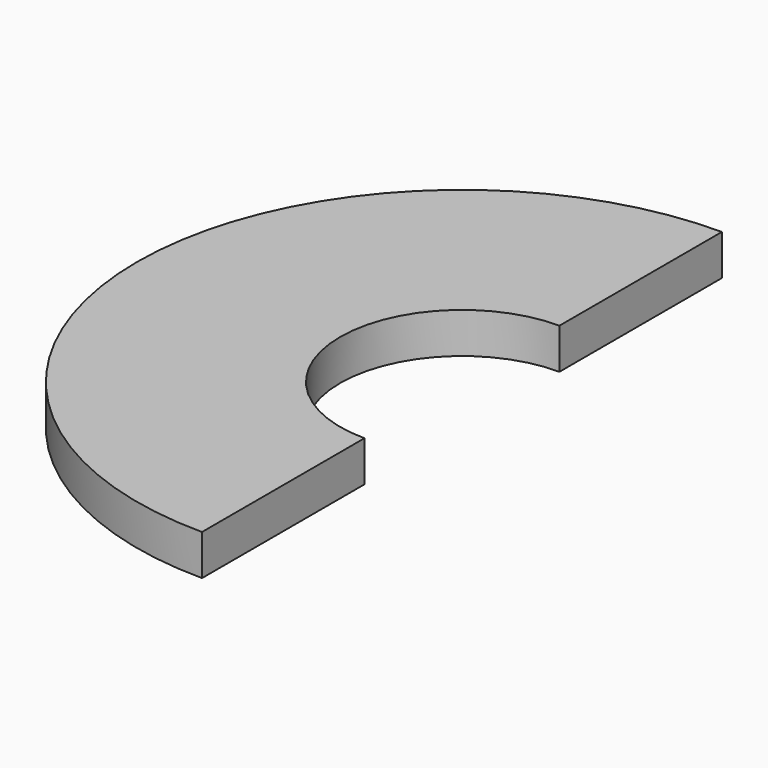
from build123d import *

# Parameters (mm, degrees)
F0_R     = 16
F1_DEPTH = 2
F2_R     = 6
F3_DEPTH = 25
F4_W     = 41.035842
F4_H     = 41.410806
F5_DEPTH = 25


with BuildPart() as f1:
    # F0 (on Top) → F1 (new body)
    with BuildSketch(Plane.XY):
        Circle(F0_R)
    extrude(amount=F1_DEPTH)

    # F2 (on Top) → F3 (cut)
    with BuildSketch(Plane.XY):
        Circle(F2_R)
    extrude(amount=F3_DEPTH, mode=Mode.SUBTRACT)

    # F4 (on Top) → F5 (cut)
    with BuildSketch(Plane.XY):
        with Locations((20.517921, 0.114485)):
            Rectangle(F4_W, F4_H)
    extrude(amount=F5_DEPTH, mode=Mode.SUBTRACT)


solid = f1.part
